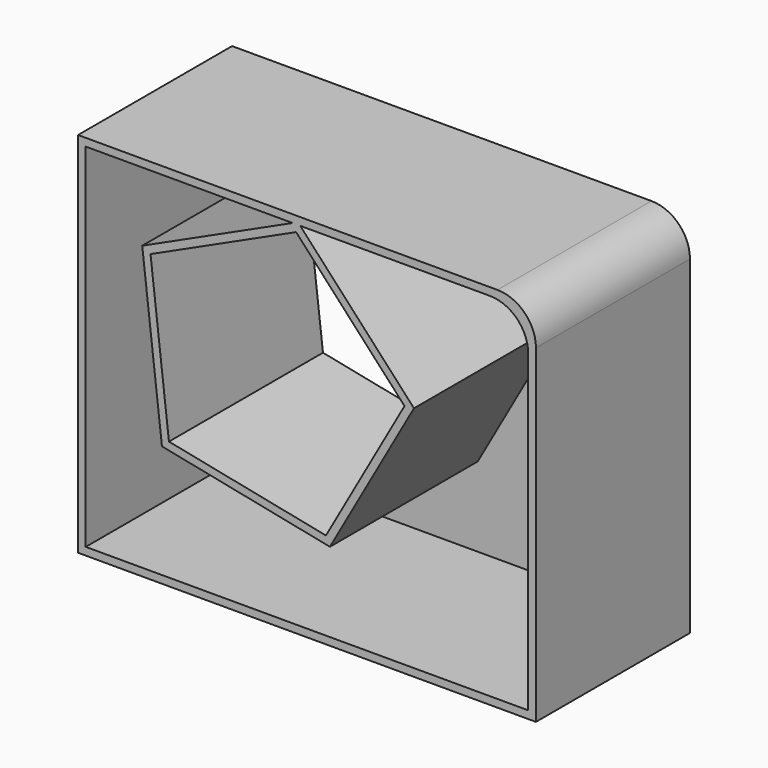
from build123d import *

# Parameters (mm, degrees)
F0_W     = 59.4606287777
F0_H     = 47.7610453963
F1_DEPTH = 25
F2_T     = -1
F3_R     = 5


with BuildPart() as f1:
    # F0 (on Front) → F1 (new body)
    with BuildSketch(Plane.XZ):
        with Locations((29.7303143889, 23.8805226982)):
            Rectangle(F0_W, F0_H)
        Polygon((28.3158866396, 45.8665414289), (42.3948997325, 30.5626016077), (32.1906423503, 12.443486977), (11.8050513651, 16.5491981105), (9.4103206379, 37.2057817696), align=None, mode=Mode.SUBTRACT)
    extrude(amount=F1_DEPTH)

    # F2
    f2_openings = [f1.faces().sort_by_distance(p)[0] for p in [
        (0.762672, -25, 23.880523),
    ]]
    offset(amount=F2_T, openings=f2_openings, kind=Kind.INTERSECTION)

    # F3
    f3_edges = [f1.edges().sort_by_distance(p)[0] for p in [
        (58.460629, -13, 46.761045),
        (59.460629, -12.5, 47.761045),
    ]]
    fillet(f3_edges, radius=F3_R)


solid = f1.part
